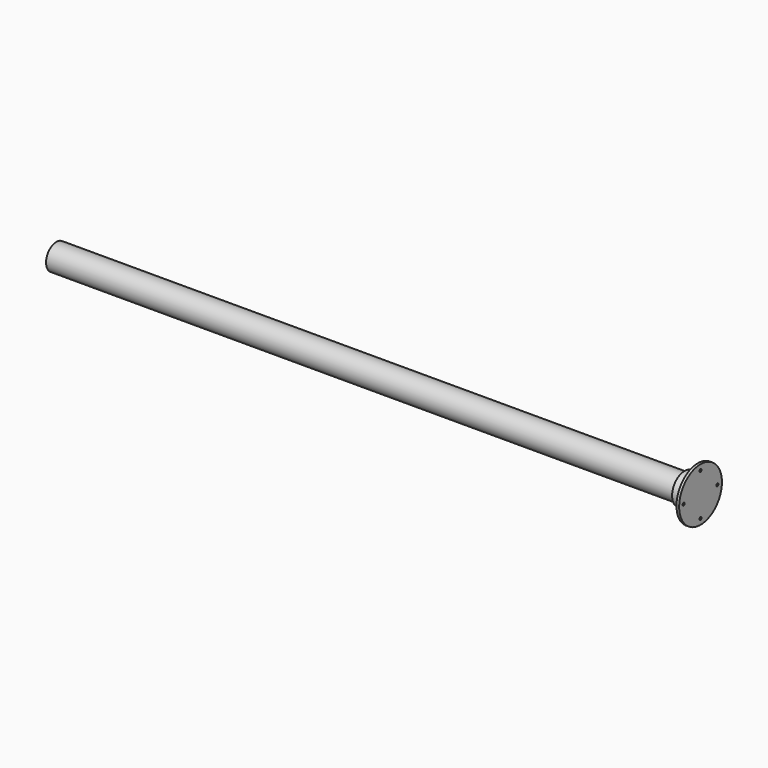
from build123d import *

# Parameters (mm, degrees)
F0_R     = 24.15
F0_R_2   = 20.15
F1_DEPTH = 1200
F2_R     = 50
F3_DEPTH = 5
F4_R     = 29
F4_R_2   = 25
F5_DEPTH = 25
F6_R     = 2.5
F7_DEPTH = 5


with BuildPart() as f1:
    # F0 (on Right) → F1 (new body)
    with BuildSketch(Plane.YZ):
        Circle(F0_R)
        Circle(F0_R_2, mode=Mode.SUBTRACT)
    extrude(amount=F1_DEPTH)


with BuildPart() as f3:
    # F2 (on face) → F3 (new body)
    with BuildSketch(Plane.YZ.offset(1200)):
        Circle(F2_R)
    extrude(amount=F3_DEPTH)

    # F4 (on face) → F5 (join)
    with BuildSketch(Plane(origin=(1200, 0, 0), x_dir=(0, -1, 0), z_dir=(-1, 0, 0))):
        Circle(F4_R)
        Circle(F4_R_2, mode=Mode.SUBTRACT)
    extrude(amount=F5_DEPTH)

    # F6 (on face) → F7 (cut, through all)
    with BuildSketch(Plane(origin=(1200, 0, 0), x_dir=(0, -1, 0), z_dir=(-1, 0, 0))):
        with Locations((-39.5, 0)):
            Circle(F6_R)
        with Locations((39.5, 0)):
            Circle(F6_R)
        with Locations((0, 39.5)):
            Circle(F6_R)
        with Locations((0, -39.5)):
            Circle(F6_R)
    extrude(amount=-F7_DEPTH, mode=Mode.SUBTRACT)


solid = Compound([f1.part, f3.part])
